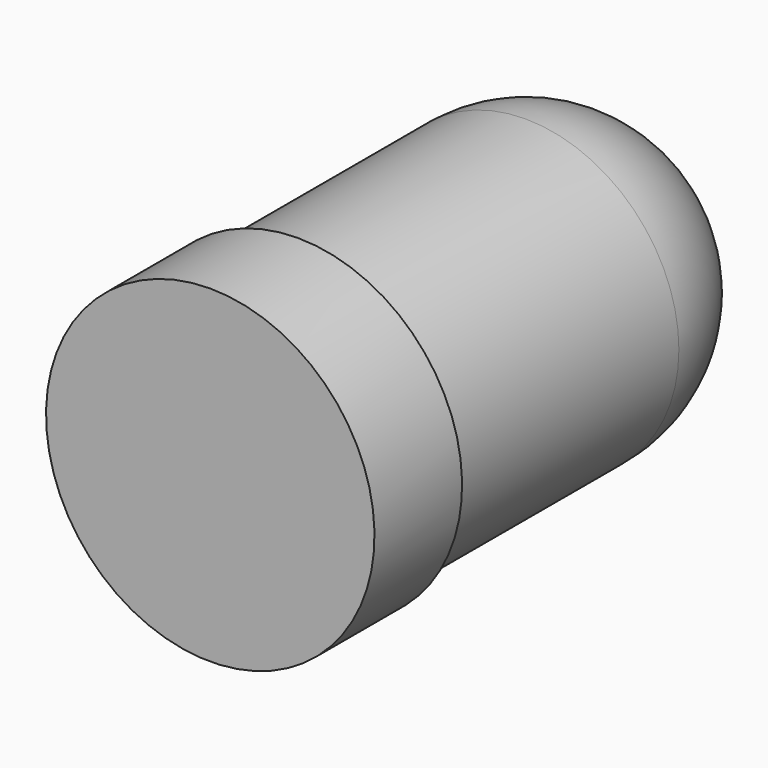
from build123d import *

# Parameters (mm, degrees)
CYLINDER002_R          = 1.5
CYLINDER002_DEPTH      = 1
SPHERE_ANGLE           = 180
SPHERE_ROLL_ANGLE      = 90
CYLINDER003_R          = 1.4
CYLINDER003_DEPTH      = 3.6
FUSION_PITCH_ANGLE     = -90
FUSION_PLACEMENT_ANGLE = -90


with BuildPart() as cilindro002:
    # Cylinder002 → Cylinder002 (new body)
    with BuildSketch(Plane.XY):
        Circle(CYLINDER002_R)
    extrude(amount=CYLINDER002_DEPTH)


with BuildPart() as obj1:
    # Sphere → Sphere (revolve)
    with BuildSketch(Plane.XZ):
        with BuildLine():
            ThreePointArc((0, -1.4), (1.4, 0), (0, 1.4))
            Line((0, 1.4), (0, -1.4))
        make_face()
    revolve(axis=Axis((0, 0, 0), (0, 0, 1)), revolution_arc=SPHERE_ANGLE)


with BuildPart() as obj1_1:
    # Sphere roll: moved
    add(obj1.part.rotate(Axis((0, 0, 0), (1, 0, 0)), SPHERE_ROLL_ANGLE))


with BuildPart() as obj1_2:
    # Sphere placement: moved
    add(obj1_1.part.moved(Location((0, 0, 3.6))))


with BuildPart() as obj2:
    # Cylinder003 → Cylinder003 (new body)
    with BuildSketch(Plane.XY):
        Circle(CYLINDER003_R)
    extrude(amount=CYLINDER003_DEPTH)

    # Fusion: union Cilindro002, obj1
    add(cilindro002.part)
    add(obj1_2.part)


with BuildPart() as obj2_1:
    # Fusion pitch: moved
    add(obj2.part.rotate(Axis((0, 0, 0), (0, 1, 0)), FUSION_PITCH_ANGLE))


with BuildPart() as obj2_2:
    # Fusion placement: moved
    add(obj2_1.part.moved(Location((-1.2, 110, 1.6))).rotate(Axis((-1.2, 110, 1.6), (0, 0, 1)), FUSION_PLACEMENT_ANGLE))


solid = obj2_2.part
